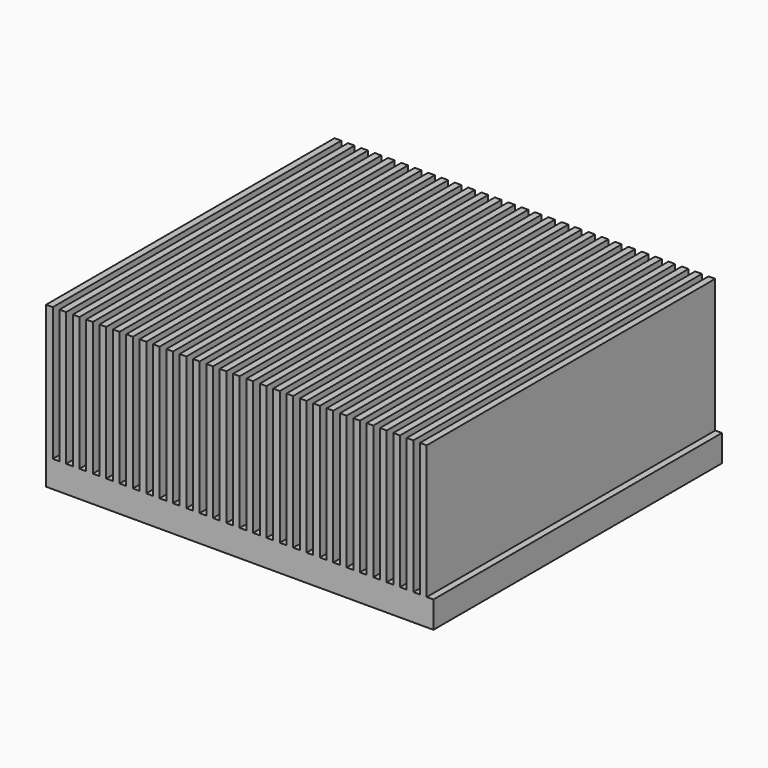
from build123d import *

# Parameters (mm, degrees)
F0_W     = 29
F0_H     = 27
F1_DEPTH = 2
F2_W     = 0.5
F2_H     = 27
F3_DEPTH = 10


with BuildPart() as f1:
    # F0 (on Top) → F1 (new body)
    with BuildSketch(Plane.XY):
        Rectangle(F0_W, F0_H)
    extrude(amount=F1_DEPTH)

    # F2 (on face) → F3 (join)
    with BuildSketch(Plane.XY.offset(2)):
        with Locations((-14.25, 0)):
            Rectangle(F2_W, F2_H)
        with Locations((-13.25, 0)):
            Rectangle(F2_W, F2_H)
        with Locations((-12.25, 0)):
            Rectangle(F2_W, F2_H)
        with Locations((-11.25, 0)):
            Rectangle(F2_W, F2_H)
        with Locations((-10.25, 0)):
            Rectangle(F2_W, F2_H)
        with Locations((-9.25, 0)):
            Rectangle(F2_W, F2_H)
        with Locations((-8.25, 0)):
            Rectangle(F2_W, F2_H)
        with Locations((-7.25, 0)):
            Rectangle(F2_W, F2_H)
        with Locations((-6.25, 0)):
            Rectangle(F2_W, F2_H)
        with Locations((-5.25, 0)):
            Rectangle(F2_W, F2_H)
        with Locations((-4.25, 0)):
            Rectangle(F2_W, F2_H)
        with Locations((-3.25, 0)):
            Rectangle(F2_W, F2_H)
        with Locations((-2.25, 0)):
            Rectangle(F2_W, F2_H)
        with Locations((-1.25, 0)):
            Rectangle(F2_W, F2_H)
        with Locations((-0.25, 0)):
            Rectangle(F2_W, F2_H)
        with Locations((0.75, 0)):
            Rectangle(F2_W, F2_H)
        with Locations((1.75, 0)):
            Rectangle(F2_W, F2_H)
        with Locations((2.75, 0)):
            Rectangle(F2_W, F2_H)
        with Locations((3.75, 0)):
            Rectangle(F2_W, F2_H)
        with Locations((4.75, 0)):
            Rectangle(F2_W, F2_H)
        with Locations((5.75, 0)):
            Rectangle(F2_W, F2_H)
        with Locations((6.75, 0)):
            Rectangle(F2_W, F2_H)
        with Locations((7.75, 0)):
            Rectangle(F2_W, F2_H)
        with Locations((8.75, 0)):
            Rectangle(F2_W, F2_H)
        with Locations((9.75, 0)):
            Rectangle(F2_W, F2_H)
        with Locations((10.75, 0)):
            Rectangle(F2_W, F2_H)
        with Locations((11.75, 0)):
            Rectangle(F2_W, F2_H)
        with Locations((12.75, 0)):
            Rectangle(F2_W, F2_H)
        with Locations((13.75, 0)):
            Rectangle(F2_W, F2_H)
    extrude(amount=F3_DEPTH)


solid = f1.part
